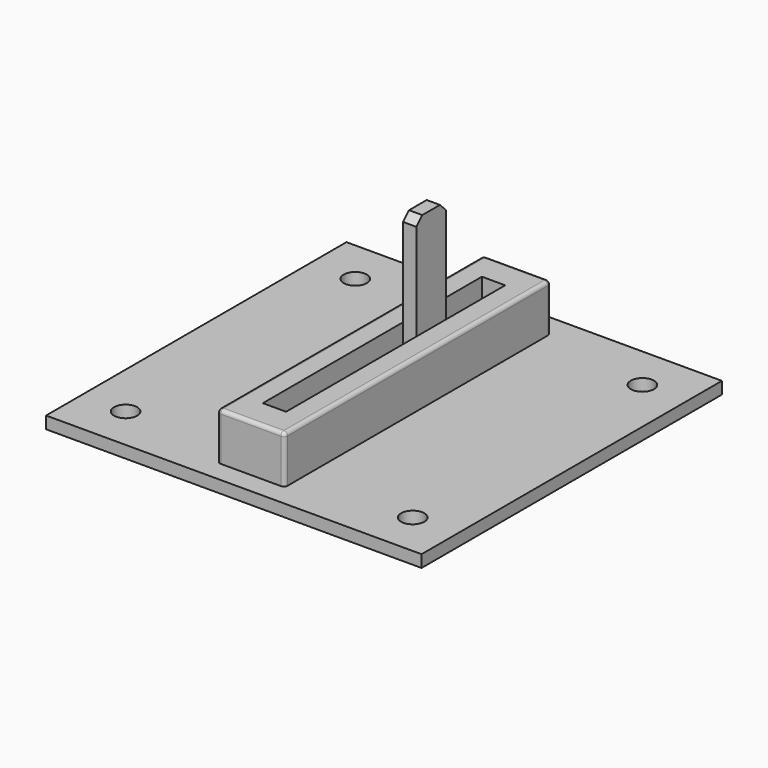
from build123d import *

# Parameters (mm, degrees)
F0_W     = 51
F0_H     = 51
F3_DEPTH = 1.65
F4_D     = 3.15
F1_W     = 9.16
F1_H     = 45.2
F1_W_2   = 3.16
F1_H_2   = 37.2
F5_DEPTH = 6.45
F6_R     = 0.5
F2_W     = 1.8
F2_H     = 5
F7_DEPTH = 20
F8_SIZE  = 1


with BuildPart() as f3:
    # F0 (on Top) → F3 (new body)
    with BuildSketch(Plane.XY):
        Rectangle(F0_W, F0_H)
    extrude(amount=-F3_DEPTH)

    # F4 (through all)
    with Locations(Plane.XY):
        with Locations((-19.5, 19.5), (19.5, 19.5), (19.5, -19.5), (-19.5, -19.5)):
            Hole(F4_D / 2)

    # F1 (on Top) → F5 (join)
    with BuildSketch(Plane.XY):
        Rectangle(F1_W, F1_H)
        Rectangle(F1_W_2, F1_H_2, mode=Mode.SUBTRACT)
    extrude(amount=F5_DEPTH)

    # F6
    f6_edges = [f3.edges().sort_by_distance(p)[0] for p in [
        (4.58, 22.6, 3.225),
        (-4.58, 22.6, 3.225),
        (4.58, -22.6, 3.225),
        (-4.58, -22.6, 3.225),
        (4.58, 0, 6.45),
        (-4.58, 0, 6.45),
        (0, -22.6, 6.45),
        (0, 22.6, 6.45),
    ]]
    fillet(f6_edges, radius=F6_R)

    # F2 (on Top) → F7 (join)
    with BuildSketch(Plane.XY):
        with Locations((0, 6.87148829)):
            Rectangle(F2_W, F2_H)
    extrude(amount=F7_DEPTH)

    # F8
    f8_edges = [f3.edges().sort_by_distance(p)[0] for p in [
        (0, 4.371488, 20),
        (0, 9.371488, 20),
    ]]
    chamfer(f8_edges, length=F8_SIZE)


solid = f3.part
